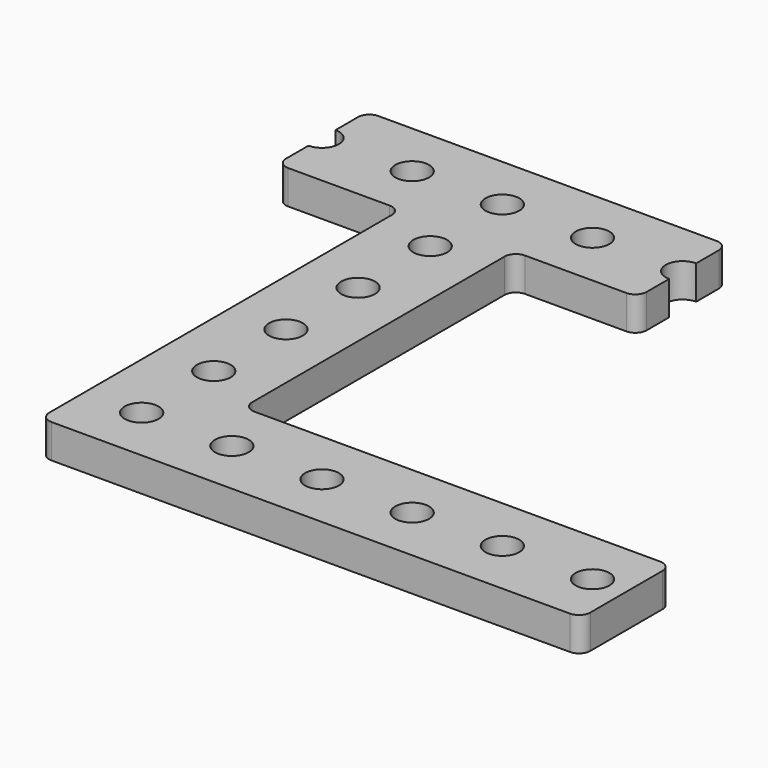
from build123d import *

# Parameters (mm, degrees)
SKETCH_R  = 1.5
PAD_DEPTH = 3
FILLET_R  = 1


with BuildPart() as part:
    # Sketch → Pad (new body)
    with BuildSketch(Plane.XY):
        with BuildLine():
            Line((-16, 5), (16, 5))
            Line((16, 1.5), (16, 5))
            ThreePointArc((16, 1.5), (14.5, 0), (16, -1.5))
            Line((16, -1.5), (16, -5))
            Line((16, -5), (5, -5))
            Line((5, -5), (5, -35))
            Line((5, -35), (43, -35))
            Line((43, -35), (43, -45))
            Line((43, -45), (-5, -45))
            Line((-5, -45), (-5, -35))
            Line((-5, -35), (-5, -5))
            Line((-5, -5), (-16, -5))
            Line((-16, -5), (-16, -1.5))
            ThreePointArc((-16, -1.5), (-14.5, 0), (-16, 1.5))
            Line((-16, 5), (-16, 1.5))
        make_face()
        with Locations((-8, 0)):
            Circle(SKETCH_R, mode=Mode.SUBTRACT)
        Circle(SKETCH_R, mode=Mode.SUBTRACT)
        with Locations((8, 0)):
            Circle(SKETCH_R, mode=Mode.SUBTRACT)
        with Locations((0, -8)):
            Circle(SKETCH_R, mode=Mode.SUBTRACT)
        with Locations((0, -16)):
            Circle(SKETCH_R, mode=Mode.SUBTRACT)
        with Locations((0, -24)):
            Circle(SKETCH_R, mode=Mode.SUBTRACT)
        with Locations((0, -32)):
            Circle(SKETCH_R, mode=Mode.SUBTRACT)
        with Locations((0, -40)):
            Circle(SKETCH_R, mode=Mode.SUBTRACT)
        with Locations((8, -40)):
            Circle(SKETCH_R, mode=Mode.SUBTRACT)
        with Locations((16, -40)):
            Circle(SKETCH_R, mode=Mode.SUBTRACT)
        with Locations((24, -40)):
            Circle(SKETCH_R, mode=Mode.SUBTRACT)
        with Locations((32, -40)):
            Circle(SKETCH_R, mode=Mode.SUBTRACT)
        with Locations((40, -40)):
            Circle(SKETCH_R, mode=Mode.SUBTRACT)
    extrude(amount=PAD_DEPTH)

    # Fillet
    fillet_edges = [part.edges().sort_by_distance(p)[0] for p in [
        (-16, 5, 1.5),
        (-16, -5, 1.5),
        (16, 5, 1.5),
        (16, -5, 1.5),
        (43, -35, 1.5),
        (5, -35, 1.5),
        (43, -45, 1.5),
        (-5, -45, 1.5),
        (5, -5, 1.5),
        (-5, -5, 1.5),
    ]]
    fillet(fillet_edges, radius=FILLET_R)


solid = part.part
